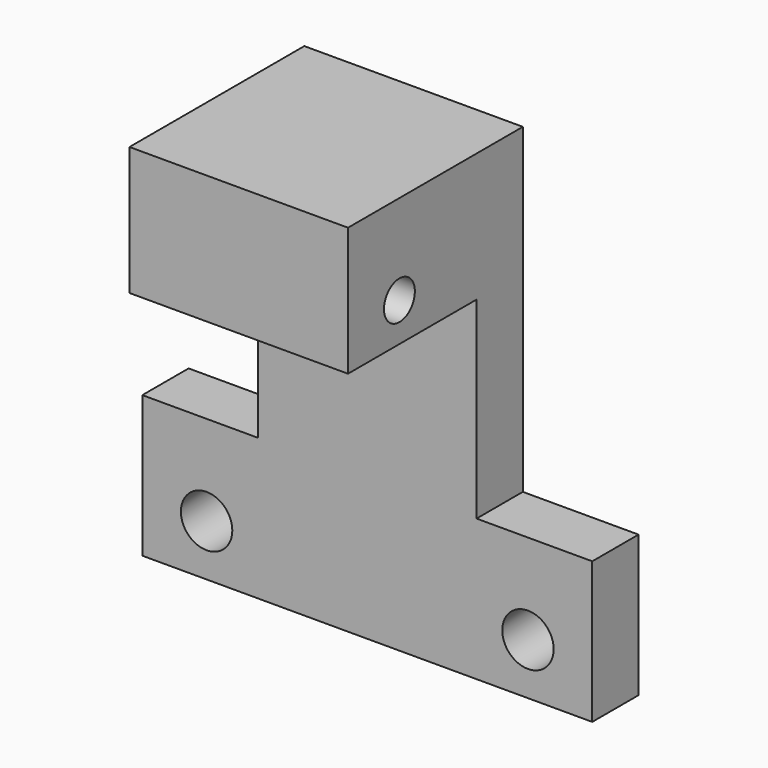
from build123d import *

# Parameters (mm, degrees)
F0_W      = 35
F0_H      = 45
F1_DEPTH  = 4.5
F2_R      = 2
F3_DEPTH  = 10
F4_W      = 35
F4_H      = 10
F5_DEPTH  = 12.5
F6_R      = 3
F7_DEPTH  = 6
F8_W      = 35
F8_H      = 4.5
F9_DEPTH  = 2
F10_W     = 9
F10_H     = 25
F11_DEPTH = 17.001
F12_R     = 1.5
F13_DEPTH = 26.001
F14_W     = 35
F14_H     = 6
F15_DEPTH = 4.501
F16_W     = 35
F16_H     = 4.5
F17_DEPTH = 1


with BuildPart() as f1:
    # F0 (on Front) → F1 (new body)
    with BuildSketch(Plane.XZ):
        with Locations((0, 2.5)):
            Rectangle(F0_W, F0_H)
    extrude(amount=F1_DEPTH)

    # F2 (on face) → F3 (cut)
    with BuildSketch(Plane.XZ.offset(4.5)):
        with Locations((12.5, -15)):
            Circle(F2_R)
        with Locations((-12.5, -15)):
            Circle(F2_R)
        with Locations((-12.5, -7)):
            Circle(F2_R)
        with Locations((12.5, -7)):
            Circle(F2_R)
    extrude(amount=-F3_DEPTH, mode=Mode.SUBTRACT)

    # F4 (on face) → F5 (join)
    with BuildSketch(Plane.XZ.offset(4.5)):
        with Locations((0, 20)):
            Rectangle(F4_W, F4_H)
    extrude(amount=F5_DEPTH)

    # F6 (on face) → F7 (cut)
    with BuildSketch(Plane(origin=(0, 0, 15), x_dir=(1, 0, 0), z_dir=(0, 0, -1))):
        with Locations((0, 12)):
            Circle(F6_R)
    extrude(amount=-F7_DEPTH, mode=Mode.SUBTRACT)

    # F8 (on face) → F9 (cut)
    with BuildSketch(Plane(origin=(0, 0, -20), x_dir=(1, 0, 0), z_dir=(0, 0, -1))):
        with Locations((0, 2.25)):
            Rectangle(F8_W, F8_H)
    extrude(amount=-F9_DEPTH, mode=Mode.SUBTRACT)

    # F10 (on face) → F11 (cut, through all)
    with BuildSketch(Plane.XZ.offset(17)):
        with Locations((-13, 12.5)):
            Rectangle(F10_W, F10_H)
        with Locations((13, 12.5)):
            Rectangle(F10_W, F10_H)
    extrude(amount=-F11_DEPTH, mode=Mode.SUBTRACT)

    # F12 (on face) → F13 (cut, through all)
    with BuildSketch(Plane.YZ.offset(8.5)):
        with Locations((-12, 18)):
            Circle(F12_R)
    extrude(amount=-F13_DEPTH, mode=Mode.SUBTRACT)

    # F14 (on face) → F15 (cut, through all)
    with BuildSketch(Plane.XZ.offset(4.5)):
        with Locations((0, -15)):
            Rectangle(F14_W, F14_H)
    extrude(amount=-F15_DEPTH, mode=Mode.SUBTRACT)

    # F16 (on face) → F17 (cut)
    with BuildSketch(Plane(origin=(0, 0, -12), x_dir=(1, 0, 0), z_dir=(0, 0, -1))):
        with Locations((0, 2.25)):
            Rectangle(F16_W, F16_H)
    extrude(amount=-F17_DEPTH, mode=Mode.SUBTRACT)


solid = f1.part
